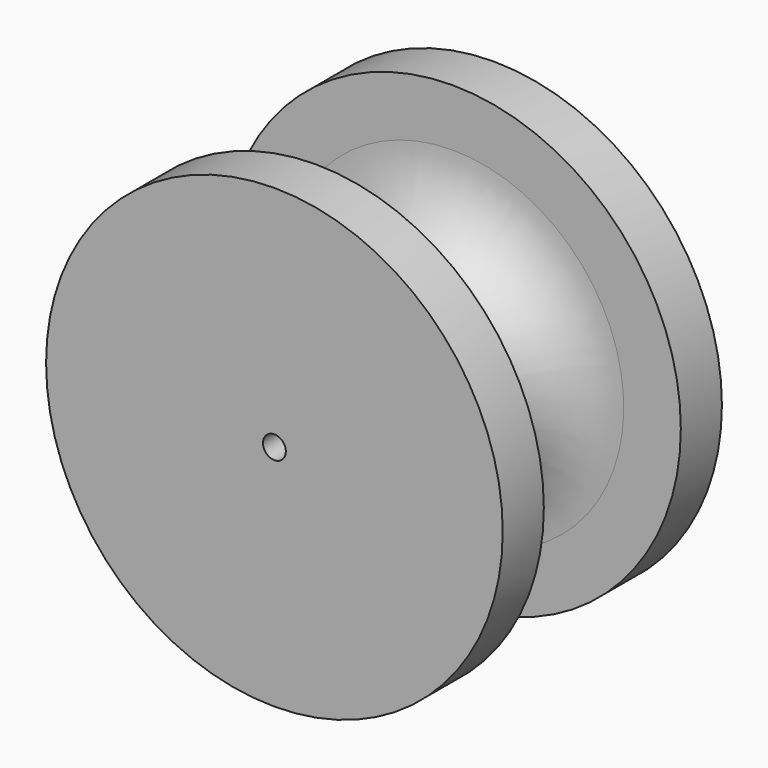
from build123d import *

# Parameters (mm, degrees)
F0_R     = 10
F1_DEPTH = 6
F5_R     = 0.5
F6_DEPTH = 12.001


with BuildPart() as f1:
    # F0 (on Front) → F1 (new body, symmetric)
    with BuildSketch(Plane.XZ):
        Circle(F0_R)
    extrude(amount=F1_DEPTH, both=True)

    # F3 (on Right) → F4 (revolve, cut)
    with BuildSketch(Plane.YZ):
        with BuildLine():
            Line((3.75, 10), (-3.75, 10))
            Line((-3.75, 10), (-3.75, 7.5))
            ThreePointArc((-3.75, 7.5), (-2.724874, 5.025126), (-0.25, 4))
            Line((-0.25, 4), (0.25, 4))
            ThreePointArc((0.25, 4), (2.724874, 5.025126), (3.75, 7.5))
            Line((3.75, 7.5), (3.75, 10))
        make_face()
    revolve(axis=Axis((0, -0.154715, 0), (0, -1, 0)), mode=Mode.SUBTRACT)

    # F5 (on face) → F6 (cut, through all)
    with BuildSketch(Plane(origin=(0, 6, 0), x_dir=(-1, 0, 0), z_dir=(0, 1, 0))):
        Circle(F5_R)
    extrude(amount=-F6_DEPTH, mode=Mode.SUBTRACT)


solid = f1.part
